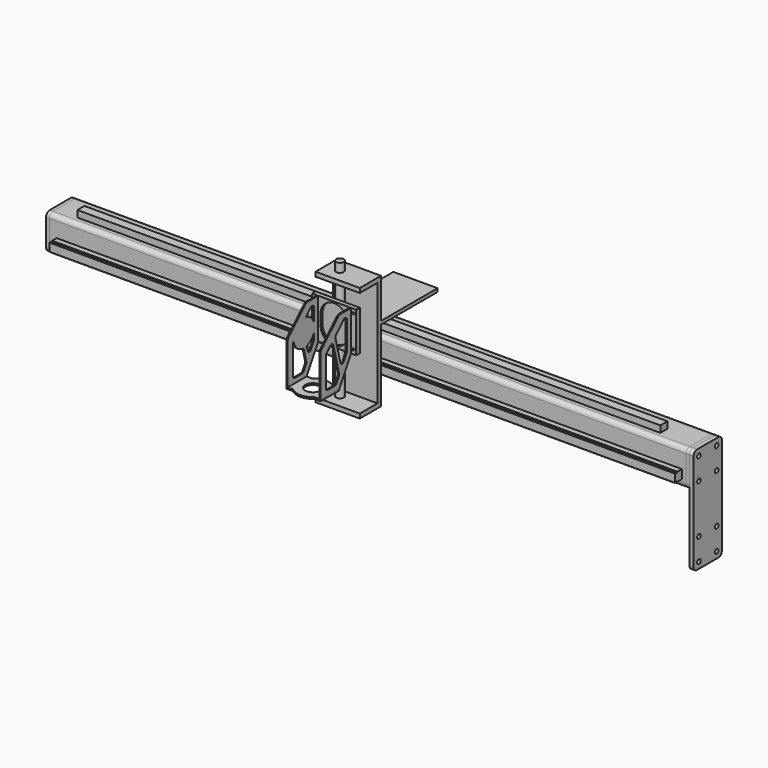
from build123d import *

# Parameters (mm, degrees)
F1_W          = 127
F1_H          = 12.7
F2_DEPTH      = 152.4
F3_W          = 127
F3_H          = 76.2
F4_DEPTH      = 12.7
F5_W          = 127
F5_H          = 63.5
F5_H_2        = 12.7
F6_DEPTH      = 12.7
F7_R          = 11.1125
F8_DEPTH      = 330.201
F9_DEPTH      = 25.4
F9_DEPTH_BACK = 329.692
F10_W         = 127
F10_H         = 115.3135821223
F11_DEPTH     = 9.525
F13_DEPTH     = 3.175
F14_R         = 3.175
F15_DEPTH     = 4.7498
F16_R         = 3.175
F17_DEPTH     = 3.429
F19_DEPTH     = 3.429
F22_DEPTH     = 4.7498
F23_R         = 22.225
F24_DEPTH     = 25.4
F25_W         = 127
F25_H         = 9.525
F26_DEPTH     = 203.2
F27_DEPTH     = 914.4
F28_R         = 6.35
F29_DEPTH     = 9.525
F31_W         = 1674.6012568474
F31_H         = 25.4
F32_DEPTH     = 19.05
F33_W         = 1795.8952784538
F33_H         = 25.4
F34_DEPTH     = 25.4
F36_DEPTH     = 1817.4841445694
F37_W         = 4.7498
F37_H         = 80.3239589125
F38_DEPTH     = 1658.62
F39_R         = 6.35
F40_DEPTH     = 12.065
F41_R         = 38.1
F42_DEPTH     = 3.429


with BuildPart() as f2:
    # F1 (on Top) → F2 (new body, symmetric)
    with BuildSketch(Plane.XY):
        Rectangle(F1_W, F1_H)
    extrude(amount=F2_DEPTH, both=True)

    # F25 (on face) → F26 (join)
    with BuildSketch(Plane(origin=(0, 6.35, 0), x_dir=(-1, 0, 0), z_dir=(0, 1, 0))):
        with Locations((0, 46.2340595543)):
            Rectangle(F25_W, F25_H)
    extrude(amount=F26_DEPTH)


with BuildPart() as f4:
    # F3 (on face) → F4 (new body)
    with BuildSketch(Plane.XY.offset(152.4)):
        with Locations((0, -31.75)):
            Rectangle(F3_W, F3_H)
    extrude(amount=F4_DEPTH)


with BuildPart() as f6:
    # F5 (on face) → F6 (new body)
    with BuildSketch(Plane(origin=(0, 0, -152.4), x_dir=(1, 0, 0), z_dir=(0, 0, -1))):
        with Locations((0, 38.1)):
            Rectangle(F5_W, F5_H)
        Rectangle(F5_W, F5_H_2)
    extrude(amount=F6_DEPTH)


with BuildPart() as f8_tool:
    # F7 (on face) → F8 (new body, through all)
    with BuildSketch(Plane.XY.offset(165.1)):
        with Locations((-24.0536741912, -31.75)):
            Circle(F7_R)
    extrude(amount=-F8_DEPTH)


with BuildPart() as f4_1:
    add(f4.part)

    # F8: cut by f8_tool
    add(f8_tool.part, mode=Mode.SUBTRACT)


with BuildPart() as f6_1:
    add(f6.part)

    # F8: cut by f8_tool
    add(f8_tool.part, mode=Mode.SUBTRACT)


with BuildPart() as f9:
    # F7 (on face) → F9 (new body, two sides)
    with BuildSketch(Plane.XY.offset(165.1)) as f9_sk:
        with Locations((-24.0536741912, -31.75)):
            Circle(F7_R)
    extrude(amount=F9_DEPTH)
    extrude(f9_sk.sketch, amount=-F9_DEPTH_BACK)


with BuildPart() as f11:
    # F10 (on face) → F11 (new body)
    with BuildSketch(Plane.XZ.offset(69.85)):
        with Locations((0, 57.6567910612)):
            Rectangle(F10_W, F10_H)
    extrude(amount=F11_DEPTH)

    # F12 (on face) → F13 (cut)
    with BuildSketch(Plane.XZ.offset(79.375)):
        with BuildLine():
            ThreePointArc((38.1, 72.6272016764), (0, 110.7272016764), (-38.1, 72.6272016764))
            Line((-38.1, 72.6272016764), (-38.1, 42.686380446))
            ThreePointArc((-38.1, 42.686380446), (0, 4.586380446), (38.1, 42.686380446))
            Line((38.1, 42.686380446), (38.1, 72.6272016764))
        make_face()
    extrude(amount=-F13_DEPTH, mode=Mode.SUBTRACT)

    # F14 (on face) → F15 (cut)
    with BuildSketch(Plane.XZ.offset(79.375)):
        with Locations((-55.1317222416, 103.6600396037)):
            Circle(F14_R)
        with Locations((-55.1317222416, 12.5380298123)):
            Circle(F14_R)
        with Locations((55.1317222416, 103.6600396037)):
            Circle(F14_R)
        with Locations((55.1317222416, 12.5380298123)):
            Circle(F14_R)
    extrude(amount=-F15_DEPTH, mode=Mode.SUBTRACT)


with BuildPart() as f17:
    # F16 (on face) → F17 (new body)
    with BuildSketch(Plane.XZ.offset(79.375)):
        with BuildLine():
            Line((0, 115.3135821223), (-61.0117378814, 115.3135821223))
            ThreePointArc((-61.0117378814, 115.3135821223), (-62.7712048988, 114.5847870212), (-63.5, 112.8253200037))
            Line((-63.5, 112.8253200037), (-63.5, 2.4882621186))
            ThreePointArc((-63.5, 2.4882621186), (-62.7712048988, 0.7287951012), (-61.0117378814, 0))
            Line((-61.0117378814, 0), (0, 0))
            Line((0, 0), (61.0117378814, 0))
            ThreePointArc((61.0117378814, 0), (62.7712048988, 0.7287951012), (63.5, 2.4882621186))
            Line((63.5, 2.4882621186), (63.5, 112.8253200037))
            ThreePointArc((63.5, 112.8253200037), (62.7712048988, 114.5847870212), (61.0117378814, 115.3135821223))
            Line((61.0117378814, 115.3135821223), (0, 115.3135821223))
        make_face()
        with Locations((-55.1317222416, 12.5380298123)):
            Circle(F16_R, mode=Mode.SUBTRACT)
        with BuildLine():
            Line((-45.4924222416, 48.5176928341), (-45.4924222416, 23.1176928341))
            ThreePointArc((-45.4924222416, 23.1176928341), (-47.2069222416, 21.4031928341), (-48.9214222416, 23.1176928341))
            Line((-48.9214222416, 23.1176928341), (-48.9214222416, 48.5176928341))
            ThreePointArc((-48.9214222416, 48.5176928341), (-47.2069222416, 50.2321928341), (-45.4924222416, 48.5176928341))
        make_face(mode=Mode.SUBTRACT)
        with Locations((55.1317222416, 12.5380298123)):
            Circle(F16_R, mode=Mode.SUBTRACT)
        with BuildLine():
            ThreePointArc((45.4924222416, 48.5176928341), (47.2069222416, 50.2321928341), (48.9214222416, 48.5176928341))
            Line((48.9214222416, 48.5176928341), (48.9214222416, 23.1176928341))
            ThreePointArc((48.9214222416, 23.1176928341), (47.2069222416, 21.4031928341), (45.4924222416, 23.1176928341))
            Line((45.4924222416, 23.1176928341), (45.4924222416, 48.5176928341))
        make_face(mode=Mode.SUBTRACT)
        with BuildLine():
            Line((-45.4924222416, 93.9434658357), (-45.4924222416, 68.5434658357))
            ThreePointArc((-45.4924222416, 68.5434658357), (-47.2069222416, 66.8289658357), (-48.9214222416, 68.5434658357))
            Line((-48.9214222416, 68.5434658357), (-48.9214222416, 93.9434658357))
            ThreePointArc((-48.9214222416, 93.9434658357), (-47.2069222416, 95.6579658357), (-45.4924222416, 93.9434658357))
        make_face(mode=Mode.SUBTRACT)
        with Locations((-55.1317222416, 103.6600396037)):
            Circle(F16_R, mode=Mode.SUBTRACT)
        with BuildLine():
            Line((-38.8874, 42.686380446), (-38.8874, 72.6272016764))
            ThreePointArc((-38.8874, 72.6272016764), (0, 111.5146016764), (38.8874, 72.6272016764))
            Line((38.8874, 72.6272016764), (38.8874, 42.686380446))
            ThreePointArc((38.8874, 42.686380446), (0, 3.798980446), (-38.8874, 42.686380446))
        make_face(mode=Mode.SUBTRACT)
        with BuildLine():
            ThreePointArc((45.4924222416, 93.9434658357), (47.2069222416, 95.6579658357), (48.9214222416, 93.9434658357))
            Line((48.9214222416, 93.9434658357), (48.9214222416, 68.5434658357))
            ThreePointArc((48.9214222416, 68.5434658357), (47.2069222416, 66.8289658357), (45.4924222416, 68.5434658357))
            Line((45.4924222416, 68.5434658357), (45.4924222416, 93.9434658357))
        make_face(mode=Mode.SUBTRACT)
        with Locations((55.1317222416, 103.6600396037)):
            Circle(F16_R, mode=Mode.SUBTRACT)
    extrude(amount=F17_DEPTH)


with BuildPart() as f19:
    # F18 (on face) → F19 (new body)
    with BuildSketch(Plane(origin=(48.9214222416, 0, 0), x_dir=(0, -1, 0), z_dir=(-1, 0, 0))):
        with BuildLine():
            Line((82.804, 115.3135821223), (82.804, 93.9434658357))
            Line((82.804, 93.9434658357), (79.375, 93.9434658357))
            Line((79.375, 93.9434658357), (79.375, 68.5434658357))
            Line((79.375, 68.5434658357), (82.804, 68.5434658357))
            Line((82.804, 68.5434658357), (82.804, 48.5176928341))
            Line((82.804, 48.5176928341), (79.375, 48.5176928341))
            Line((79.375, 48.5176928341), (79.375, 23.1176928341))
            Line((79.375, 23.1176928341), (82.804, 23.1176928341))
            Line((82.804, 23.1176928341), (82.804, 0))
            Line((82.804, 0), (124.581375736, -71.6919973493))
            Line((124.581375736, -71.6919973493), (192.309692502, -71.6919973493))
            Line((192.309692502, -71.6919973493), (192.309692502, 45.1902369091))
            ThreePointArc((192.309692502, 45.1902369091), (191.3099178348, 50.129338767), (188.468003185, 54.2908045751))
            Line((188.468003185, 54.2908045751), (129.4742449593, 111.7141497883))
            ThreePointArc((129.4742449593, 111.7141497883), (125.3967705337, 114.3793632132), (120.6159342763, 115.3135821223))
            Line((120.6159342763, 115.3135821223), (82.804, 115.3135821223))
        make_face()
        with BuildLine():
            Line((167.0269625425, -58.2017973065), (141.0867262663, -58.2017973065))
            ThreePointArc((141.0867262663, -58.2017973065), (137.9228095961, -57.3574427096), (135.6003000393, -55.0489252763))
            Line((135.6003000393, -55.0489252763), (126.2636007987, -39.0266978048))
            ThreePointArc((126.2636007987, -39.0266978048), (125.4614008666, -36.7102973925), (125.5963907466, -34.2626427328))
            Line((125.5963907466, -34.2626427328), (146.3053363691, 47.0655306716))
            ThreePointArc((146.3053363691, 47.0655306716), (150.7360208289, 51.6103902989), (156.8881279897, 50.0488874023))
            Line((156.8881279897, 50.0488874023), (171.456117884, 35.8686971937))
            ThreePointArc((171.456117884, 35.8686971937), (172.8770752089, 33.7879642897), (173.3769625425, 31.3184133607))
            Line((173.3769625425, 31.3184133607), (173.3769625425, -51.8517973065))
            ThreePointArc((173.3769625425, -51.8517973065), (171.5170906031, -56.3419253671), (167.0269625425, -58.2017973065))
        make_face(mode=Mode.SUBTRACT)
        with BuildLine():
            Line((97.934958832, 11.3018155488), (97.934958832, 92.3902258167))
            ThreePointArc((97.934958832, 92.3902258167), (101.8154079031, 98.240338483), (108.7141141735, 96.9405096497))
            Line((108.7141141735, 96.9405096497), (137.4548983112, 68.9648047807))
            ThreePointArc((137.4548983112, 68.9648047807), (139.1375296993, 66.137472767), (139.1793792489, 62.8475938454))
            Line((139.1793792489, 62.8475938454), (121.027904687, -8.4368789435))
            ThreePointArc((121.027904687, -8.4368789435), (115.7549959654, -13.1585780003), (109.3878421808, -10.067079811))
            Line((109.3878421808, -10.067079811), (98.798532605, 8.104687579))
            ThreePointArc((98.798532605, 8.104687579), (98.1546527001, 9.6459632821), (97.934958832, 11.3018155488))
        make_face(mode=Mode.SUBTRACT)
    extrude(amount=F19_DEPTH)


with BuildPart() as f20_1:
    # F20: instance of F19
    add(f19.part.mirror(Plane.YZ))

    # F41 (on face) → F42 (join)
    with BuildSketch(Plane(origin=(-48.9214222416, 0, 0), x_dir=(0, -1, 0), z_dir=(-1, 0, 0))):
        with Locations((133.845142937, 41.898980446)):
            Circle(F41_R)
    extrude(amount=-F42_DEPTH)


with BuildPart() as f22:
    # F21 (on face) → F22 (new body)
    with BuildSketch(Plane(origin=(0, 0, -71.6919973493), x_dir=(1, 0, 0), z_dir=(0, 0, -1))):
        with BuildLine():
            Line((48.9214222416, 124.581375736), (48.9214222416, 192.309692502))
            Line((48.9214222416, 192.309692502), (30.3772819459, 192.309692502))
            ThreePointArc((30.3772819459, 192.309692502), (0, 203.9379563607), (-30.3772819459, 192.309692502))
            Line((-30.3772819459, 192.309692502), (-48.9214222416, 192.309692502))
            Line((-48.9214222416, 192.309692502), (-48.9214222416, 124.581375736))
            Line((-48.9214222416, 124.581375736), (-30.3772819459, 124.581375736))
            ThreePointArc((-30.3772819459, 124.581375736), (0, 112.9531118774), (30.3772819459, 124.581375736))
            Line((30.3772819459, 124.581375736), (48.9214222416, 124.581375736))
        make_face()
    extrude(amount=F22_DEPTH)

    # F23 (on face) → F24 (cut)
    with BuildSketch(Plane.XY.offset(-71.6919973493)):
        with Locations((0, -158.445534119)):
            Circle(F23_R)
    extrude(amount=-F24_DEPTH, mode=Mode.SUBTRACT)


with BuildPart() as f27:
    # F0 (on Right) → F27 (new body, symmetric)
    with BuildSketch(Plane.YZ):
        with BuildLine():
            Line((50.8637662649, -109.7761522979), (127.0637662649, -109.7761522979))
            ThreePointArc((127.0637662649, -109.7761522979), (136.044022386, -106.0564084189), (139.7637662649, -97.0761522979))
            Line((139.7637662649, -97.0761522979), (139.7637662649, -20.8761522979))
            ThreePointArc((139.7637662649, -20.8761522979), (136.044022386, -11.8958961768), (127.0637662649, -8.1761522979))
            Line((127.0637662649, -8.1761522979), (50.8637662649, -8.1761522979))
            ThreePointArc((50.8637662649, -8.1761522979), (41.8835101438, -11.8958961768), (38.1637662649, -20.8761522979))
            Line((38.1637662649, -20.8761522979), (38.1637662649, -97.0761522979))
            ThreePointArc((38.1637662649, -97.0761522979), (41.8835101438, -106.0564084189), (50.8637662649, -109.7761522979))
        make_face()
        with BuildLine():
            ThreePointArc((50.8637662649, -103.4261522979), (46.3736382044, -101.5662803584), (44.5137662649, -97.0761522979))
            Line((44.5137662649, -97.0761522979), (44.5137662649, -20.8761522979))
            ThreePointArc((44.5137662649, -20.8761522979), (46.3736382044, -16.3860242373), (50.8637662649, -14.5261522979))
            Line((50.8637662649, -14.5261522979), (127.0637662649, -14.5261522979))
            ThreePointArc((127.0637662649, -14.5261522979), (131.5538943255, -16.3860242373), (133.4137662649, -20.8761522979))
            Line((133.4137662649, -20.8761522979), (133.4137662649, -97.0761522979))
            ThreePointArc((133.4137662649, -97.0761522979), (131.5538943255, -101.5662803584), (127.0637662649, -103.4261522979))
            Line((127.0637662649, -103.4261522979), (50.8637662649, -103.4261522979))
        make_face(mode=Mode.SUBTRACT)
    extrude(amount=F27_DEPTH, both=True)


with BuildPart() as f29:
    # F28 (on face) → F29 (new body)
    with BuildSketch(Plane.YZ.offset(914.4)):
        with BuildLine():
            Line((50.8637662649, -109.7761522979), (127.0637662649, -109.7761522979))
            ThreePointArc((127.0637662649, -109.7761522979), (136.044022386, -106.0564084189), (139.7637662649, -97.0761522979))
            Line((139.7637662649, -97.0761522979), (139.7637662649, -20.8761522979))
            ThreePointArc((139.7637662649, -20.8761522979), (136.044022386, -11.8958961768), (127.0637662649, -8.1761522979))
            Line((127.0637662649, -8.1761522979), (50.8637662649, -8.1761522979))
            ThreePointArc((50.8637662649, -8.1761522979), (41.8835101438, -11.8958961768), (38.1637662649, -20.8761522979))
            Line((38.1637662649, -20.8761522979), (38.1637662649, -97.0761522979))
            ThreePointArc((38.1637662649, -97.0761522979), (41.8835101438, -106.0564084189), (50.8637662649, -109.7761522979))
        make_face()
        with Locations((57.2137662649, -90.7261522979)):
            Circle(F28_R, mode=Mode.SUBTRACT)
        with Locations((120.7137662649, -90.7261522979)):
            Circle(F28_R, mode=Mode.SUBTRACT)
        with Locations((57.2137662649, -27.2261522979)):
            Circle(F28_R, mode=Mode.SUBTRACT)
        with Locations((120.7137662649, -27.2261522979)):
            Circle(F28_R, mode=Mode.SUBTRACT)
    extrude(amount=F29_DEPTH)


with BuildPart() as f30_1:
    # F30: instance of F29
    add(f29.part.mirror(Plane.YZ))


with BuildPart() as f32:
    # F31 (on face) → F32 (new body)
    with BuildSketch(Plane.XY.offset(-8.1761522979)):
        with Locations((-15.6408846378, 74.3689734161)):
            Rectangle(F31_W, F31_H)
    extrude(amount=F32_DEPTH)


with BuildPart() as f34:
    # F33 (on face) → F34 (new body)
    with BuildSketch(Plane.XZ.offset(-38.1637662649)):
        with Locations((4.3894946575, -76.5958066702)):
            Rectangle(F33_W, F33_H)
    extrude(amount=F34_DEPTH)

    # F35 (on face) → F36 (cut, through all)
    with BuildSketch(Plane(origin=(-893.5581445694, 0, 0), x_dir=(0, -1, 0), z_dir=(-1, 0, 0))):
        Polygon((-20.5217301846, -86.4383749008), (-22.1021343023, -89.2958066702), (-15.1878613979, -89.2958066702), (-17.4926184118, -86.4383749008), align=None)
        Polygon((-12.7637662649, -89.2958066702), (-12.7637662649, -88.1729296684), (-13.7391556054, -89.2958066702), align=None)
        Polygon((-15.1878613979, -63.8958066702), (-22.1021343023, -63.8958066702), (-20.5217301846, -66.7532384396), (-17.4926184118, -66.7532384396), align=None)
        Polygon((-12.7637662649, -63.8958066702), (-13.7391556054, -63.8958066702), (-12.7637662649, -65.018683672), align=None)
    extrude(amount=-F36_DEPTH, mode=Mode.SUBTRACT)


with BuildPart() as f38:
    # F37 (on face) → F38 (new body)
    with BuildSketch(Plane(origin=(-923.925, 0, 0), x_dir=(0, -1, 0), z_dir=(-1, 0, 0))):
        with Locations((-142.1386662649, -61.0381317541)):
            Rectangle(F37_W, F37_H)
        Polygon((-139.7637662649, -105.9499112103), (-139.7637662649, -101.2001112103), (-144.5135662649, -101.2001112103), (-220.0877251774, -101.2001112103), (-220.0877251774, -105.9499112103), align=None)
    extrude(amount=-F38_DEPTH)


with BuildPart() as f40:
    # F39 (on face) → F40 (new body)
    with BuildSketch(Plane.YZ.offset(923.925)):
        with BuildLine():
            ThreePointArc((128.6067132756, -312.9761522979), (136.5739036729, -308.787311526), (139.7637662649, -300.3702285109))
            Line((139.7637662649, -300.3702285109), (139.7637662649, -20.8761522979))
            ThreePointArc((139.7637662649, -20.8761522979), (136.044022386, -11.8958961768), (127.0637662649, -8.1761522979))
            Line((127.0637662649, -8.1761522979), (50.8637662649, -8.1761522979))
            ThreePointArc((50.8637662649, -8.1761522979), (41.8835101438, -11.8958961768), (38.1637662649, -20.8761522979))
            Line((38.1637662649, -20.8761522979), (38.1637662649, -300.8924246962))
            ThreePointArc((38.1637662649, -300.8924246962), (40.5943133191, -308.3642608958), (46.9556302324, -312.9761522979))
            Line((46.9556302324, -312.9761522979), (128.6067132756, -312.9761522979))
        make_face()
        with Locations((57.2137662649, -294.5424246962)):
            Circle(F39_R, mode=Mode.SUBTRACT)
        with Locations((57.2137662649, -231.0424246962)):
            Circle(F39_R, mode=Mode.SUBTRACT)
        with Locations((120.7137662649, -294.5424246962)):
            Circle(F39_R, mode=Mode.SUBTRACT)
        with Locations((120.7137662649, -231.0424246962)):
            Circle(F39_R, mode=Mode.SUBTRACT)
        with Locations((57.2137662649, -90.7261522979)):
            Circle(F39_R, mode=Mode.SUBTRACT)
        with Locations((57.2137662649, -27.2261522979)):
            Circle(F39_R, mode=Mode.SUBTRACT)
        with Locations((120.7137662649, -90.7261522979)):
            Circle(F39_R, mode=Mode.SUBTRACT)
        with Locations((120.7137662649, -27.2261522979)):
            Circle(F39_R, mode=Mode.SUBTRACT)
    extrude(amount=F40_DEPTH)


solid = Compound([f2.part, f4_1.part, f6_1.part, f9.part, f11.part, f17.part, f19.part, f20_1.part, f22.part, f27.part, f29.part, f30_1.part, f32.part, f34.part, f38.part, f40.part])
